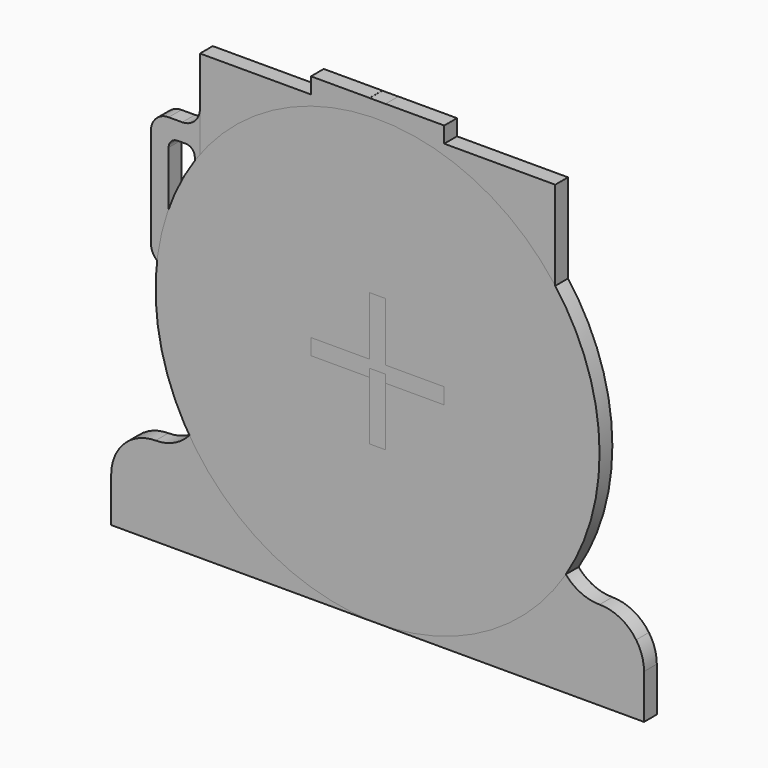
from build123d import *

# Parameters (mm, degrees)
F2_DEPTH = 18
F3_DEPTH = 18
F4_R     = 250
F5_DEPTH = 18


with BuildPart() as f2:
    # F0 (on Front) → F2 (new body)
    with BuildSketch(Plane.XZ):
        with BuildLine():
            Line((-200, -250), (200, -250))
            Line((200, -250), (300, -250))
            Line((300, -250), (300, -200))
            ThreePointArc((300, -200), (285.355339, -164.644661), (250, -150))
            ThreePointArc((250, -150), (214.644661, -135.355339), (200, -100))
            Line((200, -100), (200, 250))
            Line((200, 250), (75, 250))
            Line((75, 250), (75, 268))
            Line((75, 268), (9, 268))
            Line((9, 268), (9, 0))
            Line((9, 0), (-9, 0))
            Line((-9, 0), (-9, 268))
            Line((-9, 268), (-75, 268))
            Line((-75, 268), (-75, 250))
            Line((-75, 250), (-200, 250))
            Line((-200, 250), (-200, 195.300018))
            ThreePointArc((-200, 195.300018), (-205.857864, 181.157882), (-220, 175.300018))
            Line((-220, 175.300018), (-235.284025, 175.300018))
            ThreePointArc((-235.284025, 175.300018), (-249.426161, 169.442153), (-255.284025, 155.300018))
            Line((-255.284025, 155.300018), (-255.284025, 44.000003))
            ThreePointArc((-255.284025, 44.000003), (-249.426161, 29.857868), (-235.284025, 24.000003))
            Line((-235.284025, 24.000003), (-220, 24.000003))
            ThreePointArc((-220, 24.000003), (-205.857864, 18.142139), (-200, 4.000003))
            Line((-200, 4.000003), (-200, -100))
            ThreePointArc((-200, -100), (-214.644661, -135.355339), (-250, -150))
            ThreePointArc((-250, -150), (-285.355339, -164.644661), (-300, -200))
            Line((-300, -200), (-300, -250))
            Line((-300, -250), (-200, -250))
        make_face()
        with BuildLine():
            ThreePointArc((-235.284025, 145.300018), (-232.355093, 152.371085), (-225.284025, 155.300018))
            Line((-225.284025, 155.300018), (-215.857864, 155.300018))
            ThreePointArc((-215.857864, 155.300018), (-208.786797, 152.371085), (-205.857864, 145.300018))
            Line((-205.857864, 145.300018), (-205.857864, 54.000003))
            ThreePointArc((-205.857864, 54.000003), (-208.786797, 46.928936), (-215.857864, 44.000003))
            Line((-215.857864, 44.000003), (-225.284025, 44.000003))
            ThreePointArc((-225.284025, 44.000003), (-232.355093, 46.928936), (-235.284025, 54.000003))
            Line((-235.284025, 54.000003), (-235.284025, 145.300018))
        make_face(mode=Mode.SUBTRACT)
    extrude(amount=F2_DEPTH)


with BuildPart() as f3:
    # F1 (on Front) → F3 (new body)
    with BuildSketch(Plane.XZ):
        with BuildLine():
            Line((9, -250.078043), (200.055361, -250.078043))
            Line((200.055361, -250.078043), (300.055361, -250.078043))
            Line((300.055361, -250.078043), (300.055361, -200.078043))
            ThreePointArc((300.055361, -200.078043), (285.4107, -164.722704), (250.055361, -150.078043))
            ThreePointArc((250.055361, -150.078043), (214.700022, -135.433382), (200.055361, -100.078043))
            Line((200.055361, -100.078043), (200.055361, 249.921957))
            Line((200.055361, 249.921957), (75.055361, 249.921957))
            Line((75.055361, 249.921957), (75.055361, 267.921957))
            Line((75.055361, 267.921957), (-74.944639, 267.921957))
            Line((-74.944639, 267.921957), (-74.944639, 249.921957))
            Line((-74.944639, 249.921957), (-199.944639, 249.921957))
            Line((-199.944639, 249.921957), (-199.944639, -100.078043))
            ThreePointArc((-199.944639, -100.078043), (-214.5893, -135.433382), (-249.944639, -150.078043))
            ThreePointArc((-249.944639, -150.078043), (-285.299978, -164.722704), (-299.944639, -200.078043))
            Line((-299.944639, -200.078043), (-299.944639, -250.078043))
            Line((-299.944639, -250.078043), (-199.944639, -250.078043))
            Line((-199.944639, -250.078043), (-9, -250.078043))
            Line((-9, -250.078043), (-9, 0))
            Line((-9, 0), (9, 0))
            Line((9, 0), (9, -250.078043))
        make_face()
    extrude(amount=F3_DEPTH)


with BuildPart() as f5:
    # F4 (on Front) → F5 (new body)
    with BuildSketch(Plane.XZ):
        Circle(F4_R)
        Polygon((75, 9), (75, -9), (9, -9), (9, -75), (-9, -75), (-9, -9), (-75, -9), (-75, 9), (-9, 9), (-9, 75), (9, 75), (9, 9), align=None, mode=Mode.SUBTRACT)
    extrude(amount=F5_DEPTH)


solid = Compound([f2.part, f3.part, f5.part])
